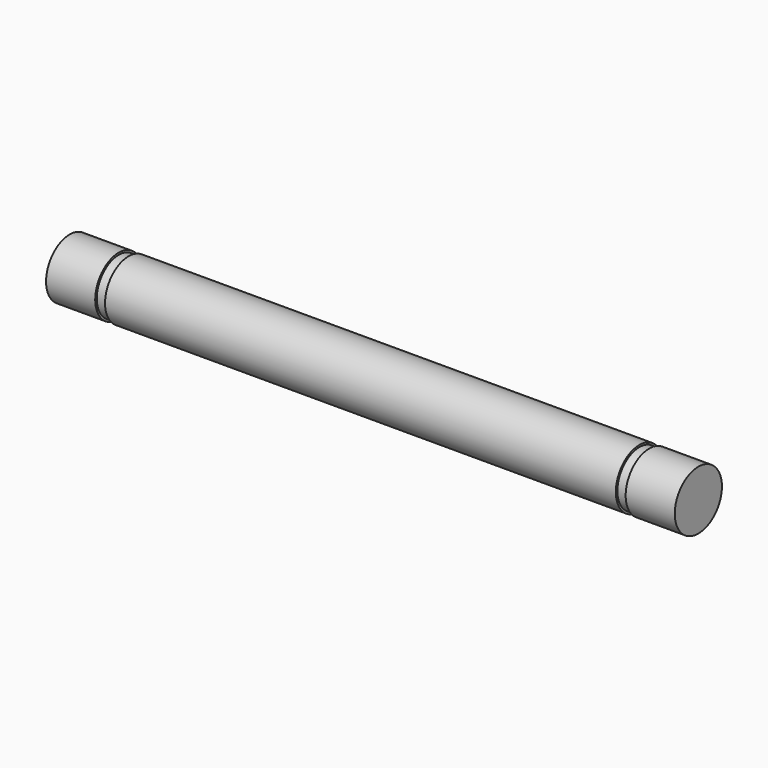
from build123d import *

# Parameters (mm, degrees)
F0_R     = 1.5
F1_DEPTH = 26
F2_R     = 1.4
F3_DEPTH = 0.5
F4_R     = 1.4
F5_DEPTH = 0.5
F6_R     = 1.5
F7_DEPTH = 2.5
F8_R     = 1.5
F9_DEPTH = 2.5


with BuildPart() as f1:
    # F0 (on Right) → F1 (new body)
    with BuildSketch(Plane.YZ):
        Circle(F0_R)
    extrude(amount=F1_DEPTH)

    # F2 (on face) → F3 (join)
    with BuildSketch(Plane.YZ.offset(26)):
        Circle(F2_R)
    extrude(amount=F3_DEPTH)

    # F4 (on face) → F5 (join)
    with BuildSketch(Plane(origin=(0, 0, 0), x_dir=(0, -1, 0), z_dir=(-1, 0, 0))):
        Circle(F4_R)
    extrude(amount=F5_DEPTH)

    # F6 (on face) → F7 (join)
    with BuildSketch(Plane(origin=(-0.5, 0, 0), x_dir=(0, -1, 0), z_dir=(-1, 0, 0))):
        Circle(F6_R)
    extrude(amount=F7_DEPTH)

    # F8 (on face) → F9 (join)
    with BuildSketch(Plane.YZ.offset(26.5)):
        Circle(F8_R)
    extrude(amount=F9_DEPTH)


solid = f1.part
